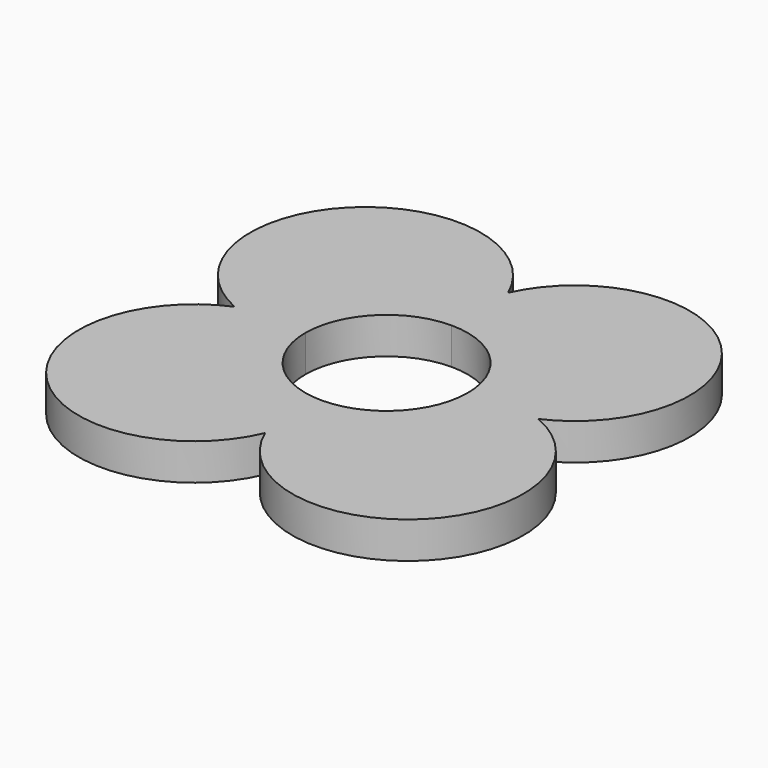
from build123d import *

# Parameters (mm, degrees)
F1_DEPTH = 5.715


with BuildPart() as f1:
    # F0 (on Top) → F1 (new body)
    with BuildSketch(Plane.XY):
        with BuildLine():
            ThreePointArc((-12.466939, 11.319563), (-3.486683, 7.599819), (0.233061, -1.380437))
            Line((0.233061, -1.380437), (11.282061, -1.380437))
            ThreePointArc((11.282061, -1.380437), (16.587703, 27.674204), (-12.466939, 22.368563))
            Line((-12.466939, 22.368563), (-12.466939, 11.319563))
        make_face()
        with BuildLine():
            Line((11.282061, -1.380437), (0.233061, -1.380437))
            ThreePointArc((0.233061, -1.380437), (-3.486683, -10.360694), (-12.466939, -14.080437))
            Line((-12.466939, -14.080437), (-12.466939, -25.129437))
            ThreePointArc((-12.466939, -25.129437), (16.921955, -30.769331), (11.282061, -1.380437))
        make_face()
        with BuildLine():
            ThreePointArc((-25.166939, -1.380437), (-21.447195, 7.599819), (-12.466939, 11.319563))
            Line((-12.466939, 11.319563), (-12.466939, 22.368563))
            ThreePointArc((-12.466939, 22.368563), (-41.719379, 27.872003), (-36.215939, -1.380437))
            Line((-36.215939, -1.380437), (-25.166939, -1.380437))
        make_face()
        with BuildLine():
            Line((-12.466939, -25.129437), (-12.466939, -14.080437))
            ThreePointArc((-12.466939, -14.080437), (-21.447195, -10.360694), (-25.166939, -1.380437))
            Line((-25.166939, -1.380437), (-36.215939, -1.380437))
            ThreePointArc((-36.215939, -1.380437), (-41.964671, -30.87817), (-12.466939, -25.129437))
        make_face()
    extrude(amount=F1_DEPTH)


solid = f1.part
